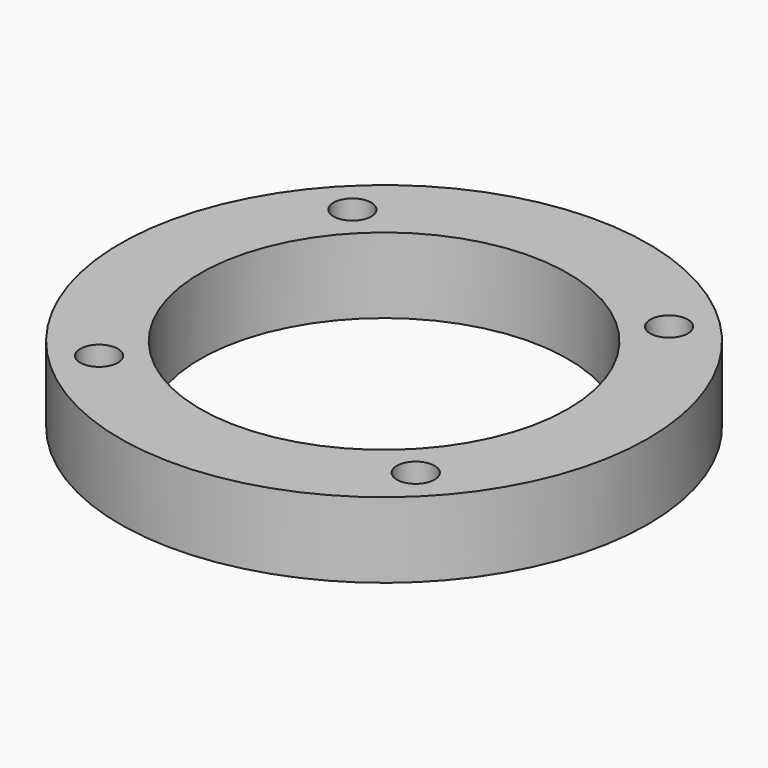
from build123d import *

# Parameters (mm, degrees)
F0_R     = 44.45
F0_R_2   = 30.95625
F1_DEPTH = 12.7
F2_R     = 3.175
F3_DEPTH = 6.35


with BuildPart() as f1:
    # F0 (on Top) → F1 (new body)
    with BuildSketch(Plane.XY):
        Circle(F0_R)
        Circle(F0_R_2, mode=Mode.SUBTRACT)
    extrude(amount=F1_DEPTH)

    # F2 (on face) → F3 (cut)
    with BuildSketch(Plane.XY.offset(12.7)):
        with Locations((26.660135, 26.660135)):
            Circle(F2_R)
        with Locations((-26.660135, 26.660135)):
            Circle(F2_R)
        with Locations((-26.660135, -26.660135)):
            Circle(F2_R)
        with Locations((26.660135, -26.660135)):
            Circle(F2_R)
    extrude(amount=-F3_DEPTH, mode=Mode.SUBTRACT)


solid = f1.part
